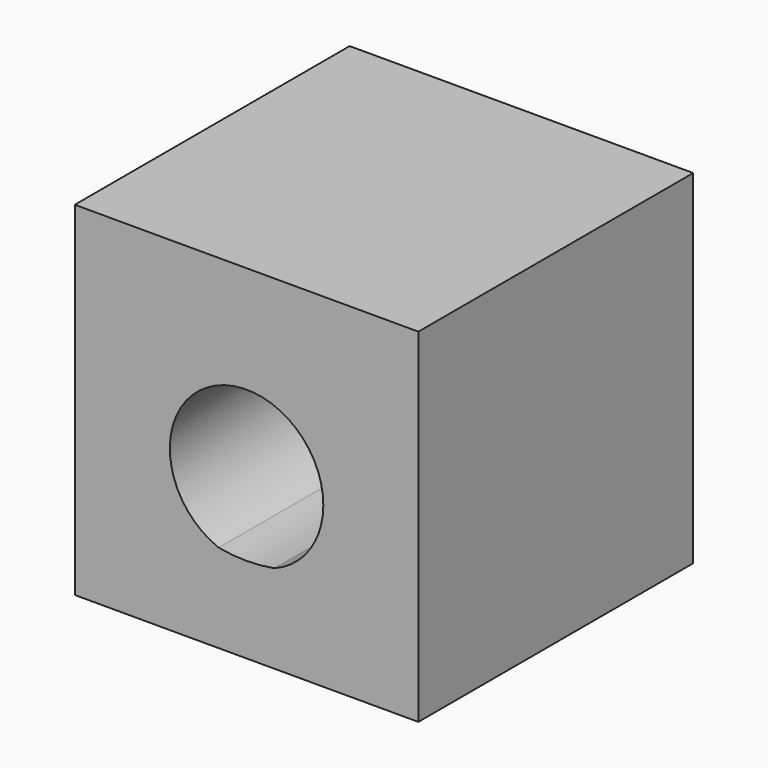
from build123d import *

# Parameters (mm, degrees)
F0_W     = 50
F0_H     = 50
F1_DEPTH = 50
F3_DEPTH = 25


with BuildPart() as f1:
    # F0 (on Top) → F1 (new body)
    with BuildSketch(Plane.XY):
        Rectangle(F0_W, F0_H)
        Rectangle(F0_W, F0_H)
    extrude(amount=F1_DEPTH)

    # F2 (on face) → F3 (cut)
    with BuildSketch(Plane.XZ.offset(25)):
        with BuildLine():
            ThreePointArc((4.058878, 12.877418), (9.22055, 16.980929), (11.167368, 23.281053))
            ThreePointArc((11.167368, 23.281053), (-6.300124, 32.501603), (-4.058878, 12.877418))
            ThreePointArc((-4.058878, 12.877418), (0, 12.498873), (4.058878, 12.877418))
        make_face()
    extrude(amount=-F3_DEPTH, mode=Mode.SUBTRACT)


solid = f1.part
